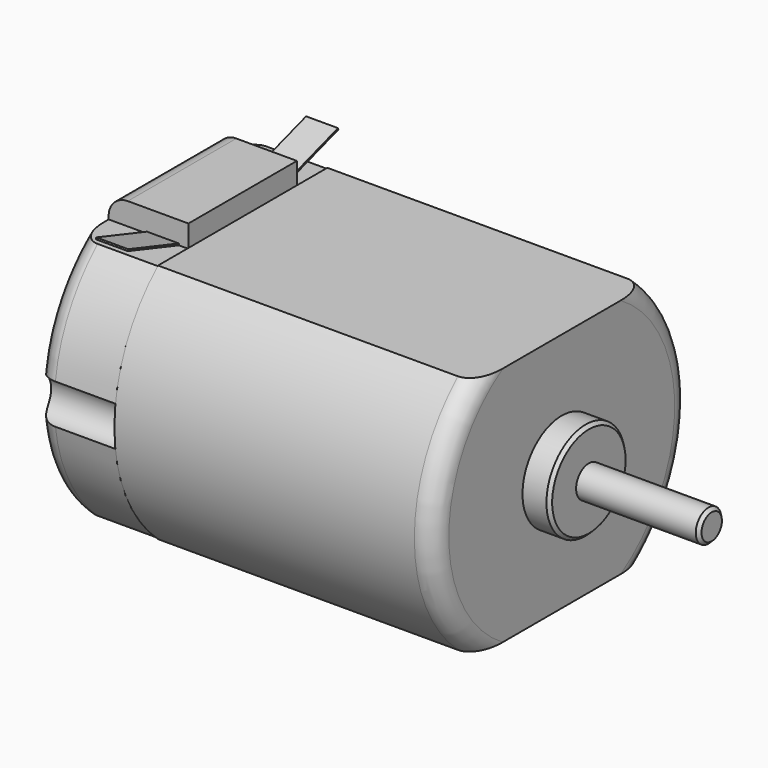
from build123d import *

# Parameters (mm, degrees)
F1_DEPTH       = 20
F2_R           = 3.075
F3_DEPTH       = 1.7
F5_DEPTH       = 5
F6_W           = 5
F6_H           = 8.5
F7_DEPTH       = 1.4
F10_DEPTH      = 1
F12_DEPTH      = 2.3
F13_R          = 1
F14_DEPTH      = 9.4
F14_DEPTH_BACK = 28.6
F15_R          = 1.2
F16_SIZE       = 0.2
F18_DEPTH      = 5


with BuildPart() as f1:
    # F0 (on Right) → F1 (new body)
    with BuildSketch(Plane.YZ):
        with BuildLine():
            Line((6.6332495807, 7.55), (-6.6332495807, 7.55))
            ThreePointArc((-6.6332495807, 7.55), (-10.05, 0), (-6.6332495807, -7.55))
            Line((-6.6332495807, -7.55), (6.6332495807, -7.55))
            ThreePointArc((6.6332495807, -7.55), (10.05, 0), (6.6332495807, 7.55))
        make_face()
    extrude(amount=F1_DEPTH)

    # F2 (on face) → F3 (join)
    with BuildSketch(Plane.YZ.offset(20)):
        Circle(F2_R)
    extrude(amount=F3_DEPTH)

    # F4 (on face) → F5 (join)
    with BuildSketch(Plane(origin=(0, 0, 0), x_dir=(0, -1, 0), z_dir=(-1, 0, 0))):
        with BuildLine():
            Line((6.6143782777, 7.5), (-6.6143782777, 7.5))
            ThreePointArc((-6.6143782777, 7.5), (-10, 0), (-6.6143782777, -7.5))
            Line((-6.6143782777, -7.5), (6.6143782777, -7.5))
            ThreePointArc((6.6143782777, -7.5), (10, 0), (6.6143782777, 7.5))
        make_face()
    extrude(amount=F5_DEPTH)

    # F6 (on face) → F7 (join)
    with BuildSketch(Plane.XY.offset(7.5)):
        with Locations((-2.5, 0)):
            Rectangle(F6_W, F6_H)
    extrude(amount=F7_DEPTH)

    # F9 (on offset) → F10 (join, symmetric)
    with BuildSketch(Plane(origin=(-1.6, 0, 0), x_dir=(0, -1, 0), z_dir=(-1, 0, 0))):
        Polygon((4.25, 7.6051868729), (4.25, 7.5), (8.25, 8.8049311029), (8.2189854098, 8.9), align=None)
        Polygon((-8.25, 8.8049311029), (-4.25, 7.5), (-4.25, 7.6051868729), (-8.2189854098, 8.9), align=None)
    extrude(amount=F10_DEPTH, both=True)

    # F11 (on face) → F12 (join)
    with BuildSketch(Plane(origin=(-5, 0, 0), x_dir=(0, -1, 0), z_dir=(-1, 0, 0))):
        with BuildLine():
            Line((-3.5707142143, -3.5), (3.5707142143, -3.5))
            ThreePointArc((3.5707142143, -3.5), (0, 5), (-3.5707142143, -3.5))
        make_face()
    extrude(amount=F12_DEPTH)

    # F13 (on face) → F14 (join, two sides)
    with BuildSketch(Plane.YZ.offset(20)) as f14_sk:
        Circle(F13_R)
    extrude(amount=F14_DEPTH)
    extrude(f14_sk.sketch, amount=-F14_DEPTH_BACK)

    # F15
    f15_edges = [f1.edges().sort_by_distance(p)[0] for p in [
        (-5, -10, 0),
        (-5, 10, 0),
        (-5, 0, 8.9),
        (20, -10.05, 0),
        (20, 10.05, 0),
    ]]
    fillet(f15_edges, radius=F15_R)

    # F16
    f16_edges = [f1.edges().sort_by_distance(p)[0] for p in [
        (-8.6, -1, 0),
        (-7.3, 0, 5),
        (21.7, -3.075, 0),
        (29.4, -1, 0),
        (-7.3, 0, -3.5),
    ]]
    chamfer(f16_edges, length=F16_SIZE)

    # F17 (on face) → F18 (cut)
    with BuildSketch(Plane(origin=(-5, 0, 0), x_dir=(0, -1, 0), z_dir=(-1, 0, 0))):
        with BuildLine():
            Line((12, 1.25), (10, 1.25))
            ThreePointArc((10, 1.25), (8.75, 0), (10, -1.25))
            Line((10, -1.25), (12, -1.25))
            Line((12, -1.25), (12, 1.25))
        make_face()
        with BuildLine():
            Line((-12, -1.25), (-10, -1.25))
            ThreePointArc((-10, -1.25), (-8.75, 0), (-10, 1.25))
            Line((-10, 1.25), (-12, 1.25))
            Line((-12, 1.25), (-12, -1.25))
        make_face()
    extrude(amount=-F18_DEPTH, mode=Mode.SUBTRACT)


solid = f1.part
